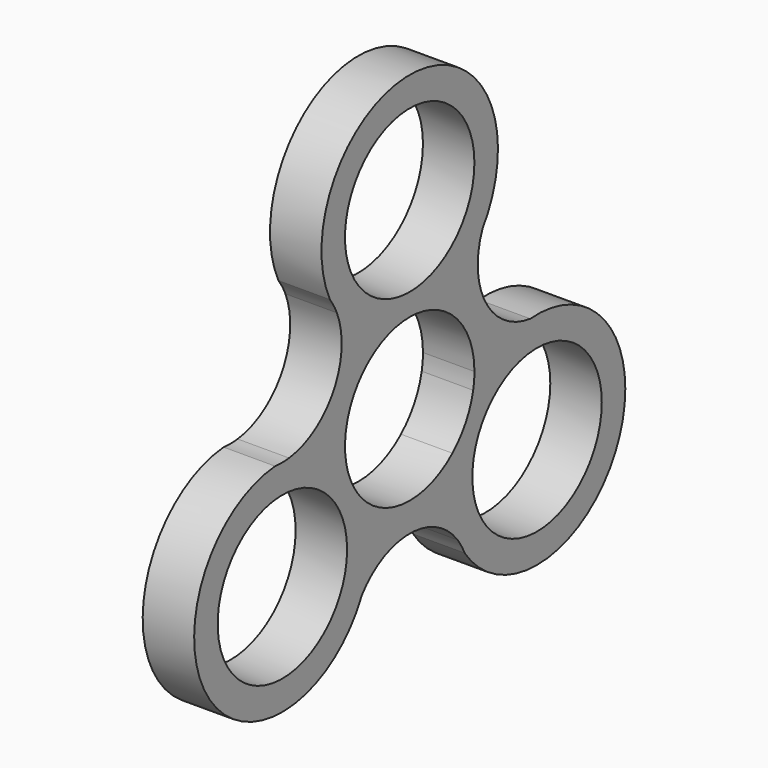
from build123d import *

# Parameters (mm, degrees)
F0_R     = 11
F1_DEPTH = 7


with BuildPart() as f1:
    # F0 (on Right) → F1 (new body)
    with BuildSketch(Plane.YZ):
        with BuildLine():
            ThreePointArc((-10.784147298, -2.158380433), (-15.2181462376, 1.0504484301), (-20.5081756924, 2.4549118995))
            ThreePointArc((-20.5081756924, 2.4549118995), (-21.7006480739, 2.3804655364), (-22.893620827, 2.4464098455))
            ThreePointArc((-22.893620827, 2.4464098455), (-33.994808864, -21.019176627), (-8.1163913394, -18.9752512981))
            ThreePointArc((-8.1163913394, -18.9752512981), (-7.0194101473, -15.8207684356), (-6.6476058185, -12.5017487903))
            ThreePointArc((-6.6476058185, -12.5017487903), (-6.8012263567, -10.3604835388), (-7.2589414021, -8.2630772634))
            ThreePointArc((-7.2589414021, -8.2630772634), (-9.5238156568, -5.500769422), (-10.784147298, -2.158380433))
        make_face()
        with Locations((-21.6476058185, -12.5017487903)):
            Circle(F0_R, mode=Mode.SUBTRACT)
        with BuildLine():
            ThreePointArc((-3.5235349877, 10.4197153255), (-8.5198228728, 12.6544494568), (-12.381765286, 16.532893741))
            ThreePointArc((-12.381765286, 16.532893741), (-12.9305392328, 7.4652234928), (-20.5081756924, 2.4549118995))
            ThreePointArc((-20.5081756924, 2.4549118995), (-15.2181462376, 1.0504484301), (-10.784147298, -2.158380433))
            ThreePointArc((-10.784147298, -2.158380433), (-9.5247042237, 5.4992305421), (-3.5235349877, 10.4197153255))
        make_face()
        with BuildLine():
            ThreePointArc((12.3770934621, 16.5260660004), (14.3292777545, 20.564709814), (15, 25))
            ThreePointArc((15, 25), (-3.2778125884, 39.6374842318), (-13.5674592847, 18.602809323))
            ThreePointArc((-13.5674592847, 18.602809323), (-12.9137018843, 17.6027423738), (-12.381765286, 16.532893741))
            ThreePointArc((-12.381765286, 16.532893741), (-8.5198228728, 12.6544494568), (-3.5235349877, 10.4197153255))
            ThreePointArc((-3.5235349877, 10.4197153255), (0.0011309034, 11.0000000457), (3.5258904978, 10.4202847697))
            ThreePointArc((3.5258904978, 10.4202847697), (8.5174154423, 12.6527884045), (12.3770934621, 16.5260660004))
        make_face()
        with Locations((-0.0030291348, 24.9982509651)):
            Circle(F0_R, mode=Mode.SUBTRACT)
        with BuildLine():
            ThreePointArc((20.5011537716, 2.457407484), (12.9303431289, 7.4655631547), (12.3770934621, 16.5260660004))
            ThreePointArc((12.3770934621, 16.5260660004), (8.5174154423, 12.6527884045), (3.5258904978, 10.4202847697))
            ThreePointArc((3.5258904978, 10.4202847697), (8.9396528624, 6.4123872618), (11.0020194703, 8.16e-08))
            ThreePointArc((11.0020194703, 8.16e-08), (10.9485181944, -1.0835891777), (10.7885348007, -2.1566378173))
            ThreePointArc((10.7885348007, -2.1566378173), (15.2171845533, 1.0506135401), (20.5011537716, 2.457407484))
        make_face()
        with BuildLine():
            ThreePointArc((36.6536642295, -12.4982509651), (31.8446490477, -1.4917152506), (20.5011537716, 2.457407484))
            ThreePointArc((20.5011537716, 2.457407484), (15.2171845533, 1.0506135401), (10.7885348007, -2.1566378173))
            ThreePointArc((10.7885348007, -2.1566378173), (9.5287431643, -5.4992303789), (7.2643152111, -8.261904092))
            ThreePointArc((7.2643152111, -8.261904092), (6.7026707945, -13.7097769898), (8.1341442138, -18.9961412801))
            ThreePointArc((8.1341442138, -18.9961412801), (8.7894001381, -19.9846100473), (9.3251094568, -21.0426489671))
            ThreePointArc((9.3251094568, -21.0426489671), (26.1298053359, -26.8148204143), (36.6536642295, -12.4982509651))
        make_face()
        with Locations((21.6506349533, -12.4965021748)):
            Circle(F0_R, mode=Mode.SUBTRACT)
        with BuildLine():
            ThreePointArc((8.1341442138, -18.9961412801), (6.7026707945, -13.7097769898), (7.2643152111, -8.261904092))
            ThreePointArc((7.2643152111, -8.261904092), (0.0029080373, -10.9999998825), (-7.2589414021, -8.2630772634))
            ThreePointArc((-7.2589414021, -8.2630772634), (-6.8012263567, -10.3604835388), (-6.6476058185, -12.5017487903))
            ThreePointArc((-6.6476058185, -12.5017487903), (-7.0194101473, -15.8207684356), (-8.1163913394, -18.9752512981))
            ThreePointArc((-8.1163913394, -18.9752512981), (0.0140889918, -14.9307955749), (8.1341442138, -18.9961412801))
        make_face()
    extrude(amount=F1_DEPTH)


solid = f1.part
